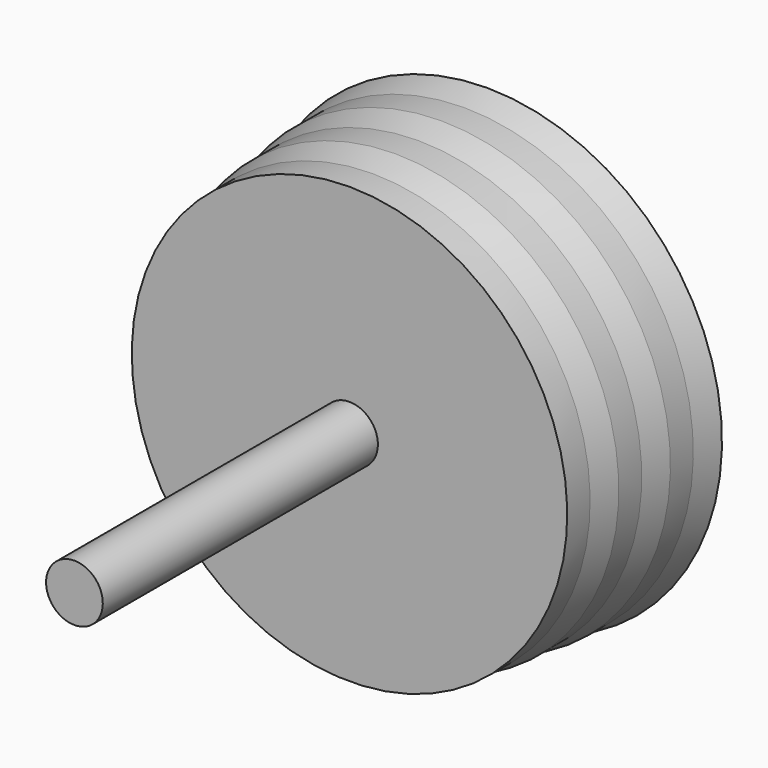
from build123d import *


with BuildPart() as f1:
    # F0 (on Right) → F1 (revolve)
    with BuildSketch(Plane.YZ):
        Polygon((-30, 2.475), (-30, 0), (30.5, 0), (30.5, 2), (20.5, 2), (20.5, 2.475), (15, 2.475), (15, 20.5), (12.5, 20), (10, 20), (7.5, 19.5), (5, 19.5), (2.5, 19), (0, 19), (0, 2.475), align=None)
    revolve(axis=Axis((0, 0.25, 0), (0, -1, 0)))


solid = f1.part
